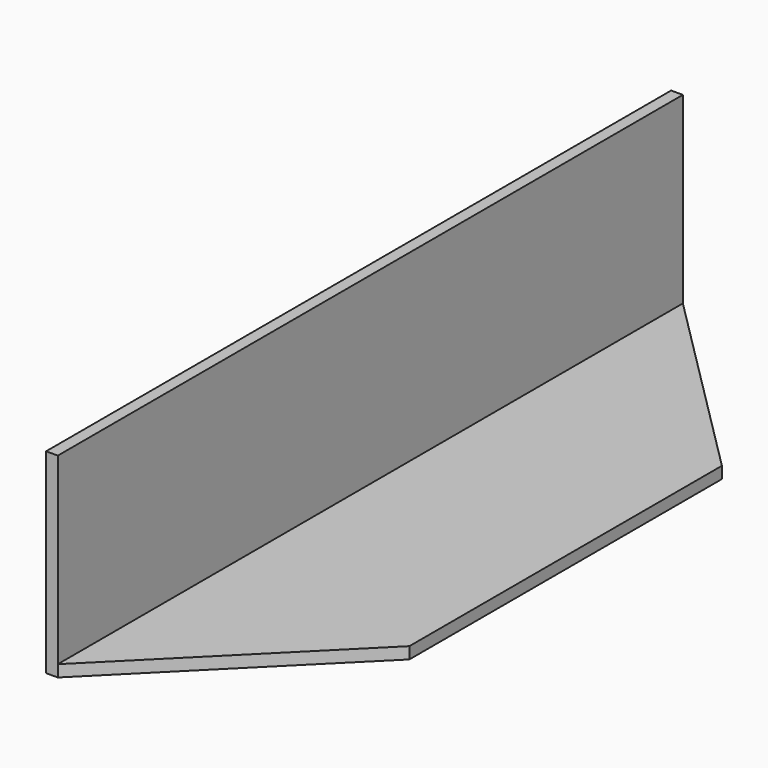
from build123d import *

# Parameters (mm, degrees)
F0_W     = 3
F0_H     = 200
F1_DEPTH = 50
F2_DEPTH = 3


with BuildPart() as f1:
    # F0 (on Top) → F1 (new body)
    with BuildSketch(Plane.XY):
        with Locations((-125.099786, 6.558467)):
            Rectangle(F0_W, F0_H)
    extrude(amount=F1_DEPTH)

    # F0 (on Top) → F2 (join)
    with BuildSketch(Plane.XY):
        Polygon((-73.599786, 56.558467), (-123.599786, 106.558467), (-123.599786, -93.441533), (-73.599786, -43.441533), align=None)
    extrude(amount=F2_DEPTH)


solid = f1.part
